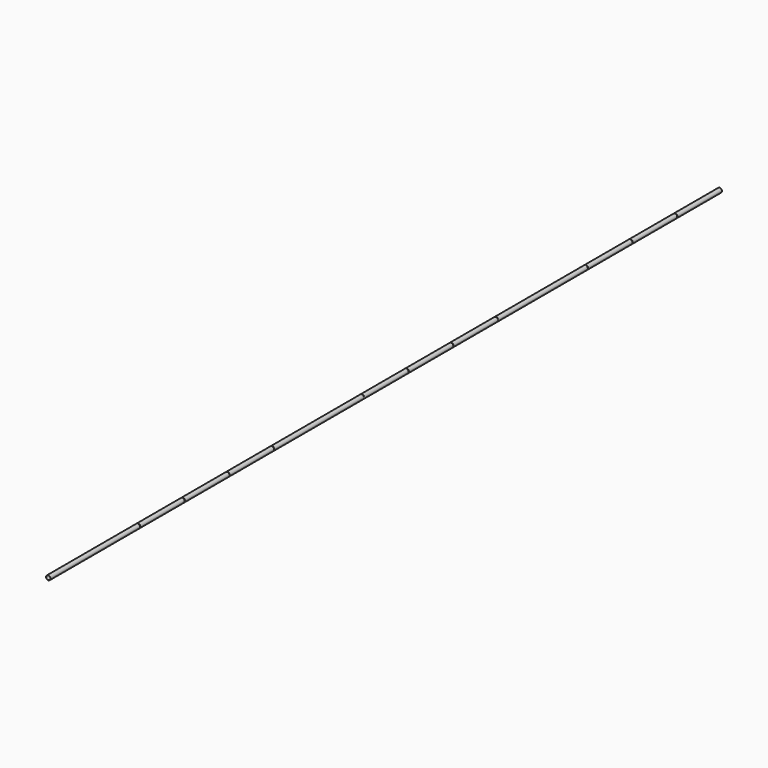
from build123d import *

# Parameters (mm, degrees)
F0_R     = 15.875
F0_R_2   = 14.875
F1_DEPTH = 3000
F2_W     = 31.75
F2_H     = 2
F3_DEPTH = 16
F4_W     = 31.75
F4_H     = 3
F5_DEPTH = 17.5


with BuildPart() as f1:
    # F0 (on Front) → F1 (new body, symmetric)
    with BuildSketch(Plane.XZ):
        Circle(F0_R)
        Circle(F0_R_2, mode=Mode.SUBTRACT)
    extrude(amount=F1_DEPTH, both=True)

    # F2 (on Top) → F3 (cut, symmetric)
    with BuildSketch(Plane.XY):
        with Locations((0, -1000.333333)):
            Rectangle(F2_W, F2_H)
        with Locations((0, 1000.333333)):
            Rectangle(F2_W, F2_H)
    extrude(amount=F3_DEPTH, both=True, mode=Mode.SUBTRACT)

    # F4 (on Top) → F5 (cut, symmetric)
    with BuildSketch(Plane.XY):
        with Locations((0, -2198.5)):
            Rectangle(F4_W, F4_H)
        with Locations((0, -1798.944444)):
            Rectangle(F4_W, F4_H)
        with Locations((0, -1399.388889)):
            Rectangle(F4_W, F4_H)
        with Locations((0, -197.833333)):
            Rectangle(F4_W, F4_H)
        with Locations((0, 201.722222)):
            Rectangle(F4_W, F4_H)
        with Locations((0, 601.277778)):
            Rectangle(F4_W, F4_H)
        with Locations((0, 1802.833333)):
            Rectangle(F4_W, F4_H)
        with Locations((0, 2202.388889)):
            Rectangle(F4_W, F4_H)
        with Locations((0, 2601.944444)):
            Rectangle(F4_W, F4_H)
    extrude(amount=F5_DEPTH, both=True, mode=Mode.SUBTRACT)


solid = f1.part
